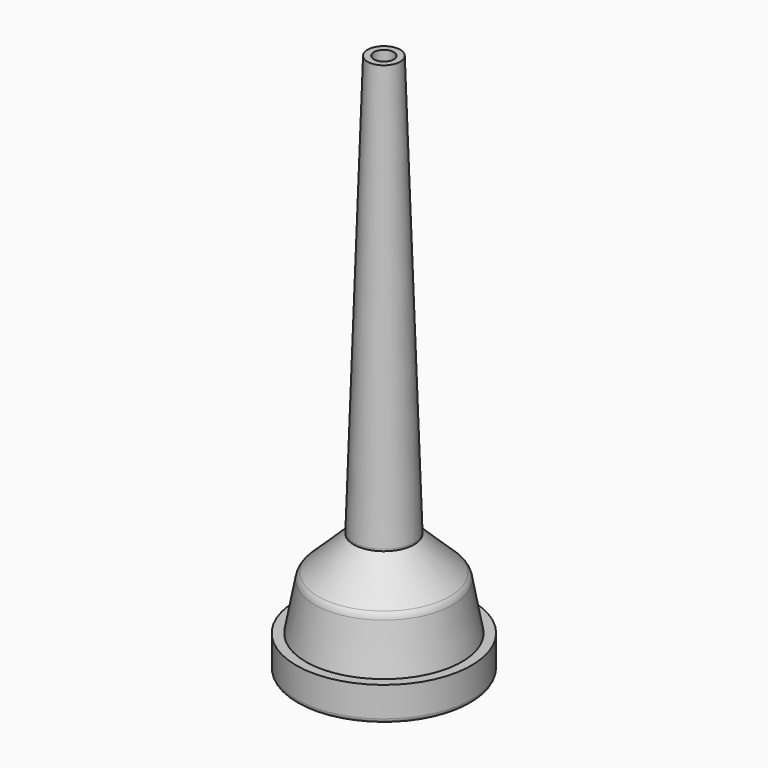
from build123d import *


with BuildPart() as f1:
    # F0 (on Front) → F1 (revolve)
    with BuildSketch(Plane.XZ):
        with BuildLine():
            ThreePointArc((-8.567968, 0), (-8.192318, 0.155599), (-8.036719, 0.531249))
            Line((-8.036719, 0.531249), (-8.036719, 2.54))
            ThreePointArc((-8.036719, 2.54), (-6.288621, 8.970072), (-1.525564, 13.630004))
            Line((-1.525564, 13.630004), (-1.180973, 13.822305))
            Line((-1.180973, 13.822305), (-1.180973, 64.622305))
            Line((-1.180973, 64.622305), (-1.942973, 64.622305))
            Line((-1.942973, 64.622305), (-3.590543, 14.75026))
            Line((-3.590543, 14.75026), (-3.597565, 14.537721))
            Line((-3.597565, 14.537721), (-7.828724, 10.469195))
            ThreePointArc((-7.828724, 10.469195), (-8.086259, 10.130374), (-8.228106, 9.729121))
            Line((-8.228106, 9.729121), (-9.281465, 4.092137))
            Line((-9.281465, 4.092137), (-10.440502, 4.092137))
            Line((-10.440502, 4.092137), (-10.440502, 0.531249))
            ThreePointArc((-10.440502, 0.531249), (-10.284903, 0.155599), (-9.909253, 0))
            Line((-9.909253, 0), (-8.567968, 0))
        make_face()
    revolve(axis=Axis((0, 0, 35.162274), (0, 0, 1)))


solid = f1.part
